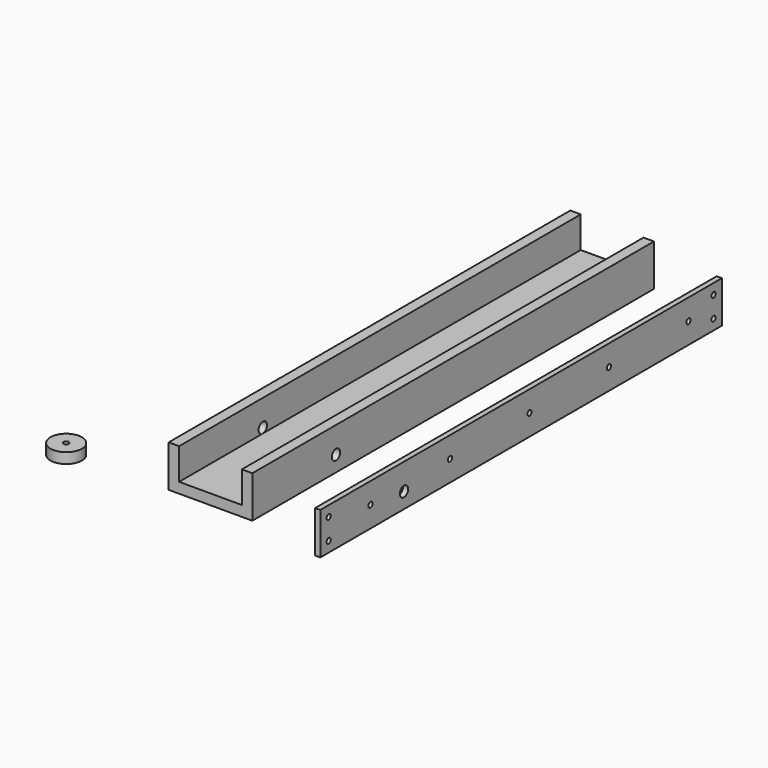
from build123d import *

# Parameters (mm, degrees)
F1_DEPTH  = 304.8
F2_R      = 3.175
F3_DEPTH  = 50.8
F4_W      = 3.175
F4_H      = 304.8
F5_DEPTH  = 25.4
F6_R      = 3.175
F7_DEPTH  = 25.4
F8_R      = 1.5875
F9_DEPTH  = 25.4
F10_R     = 9.525
F10_R_2   = 1.5875
F11_DEPTH = 6.35
F12_R     = 1.5875
F13_DEPTH = 25.4


with BuildPart() as f1:
    # F0 (on Front) → F1 (new body)
    with BuildSketch(Plane.XZ):
        Polygon((-19.05, 6.210679), (-25.4, 6.210679), (-25.4, -19.189321), (25.4, -19.189321), (25.4, 6.210679), (19.05, 6.210679), (19.05, -12.839321), (-19.05, -12.839321), align=None)
    extrude(amount=-F1_DEPTH)

    # F2 (on face) → F3 (cut, through all)
    with BuildSketch(Plane(origin=(-25.4, 0, 0), x_dir=(0, -1, 0), z_dir=(-1, 0, 0))):
        with Locations((-63.5, -9.664321)):
            Circle(F2_R)
    extrude(amount=-F3_DEPTH, mode=Mode.SUBTRACT)

    # F12 (on face) → F13 (cut)
    with BuildSketch(Plane(origin=(0, 0, -19.189321), x_dir=(1, 0, 0), z_dir=(0, 0, -1))):
        with Locations((0, -184.15)):
            Circle(F12_R)
        with Locations((0, -234.95)):
            Circle(F12_R)
        with Locations((0, -285.75)):
            Circle(F12_R)
    extrude(amount=-F13_DEPTH, mode=Mode.SUBTRACT)


with BuildPart() as f5:
    # F4 (on Top) → F5 (new body)
    with BuildSketch(Plane.XY):
        with Locations((65.087453, 152.4)):
            Rectangle(F4_W, F4_H)
    extrude(amount=-F5_DEPTH)

    # F6 (on face) → F7 (cut)
    with BuildSketch(Plane.YZ.offset(66.674953)):
        with Locations((63.5, -15.875)):
            Circle(F6_R)
    extrude(amount=-F7_DEPTH, mode=Mode.SUBTRACT)

    # F8 (on face) → F9 (cut)
    with BuildSketch(Plane.YZ.offset(66.674953)):
        with Locations((6.35, -6.35)):
            Circle(F8_R)
        with Locations((6.35, -19.05)):
            Circle(F8_R)
        with Locations((38.1, -12.7)):
            Circle(F8_R)
        with Locations((98.425, -12.7)):
            Circle(F8_R)
        with Locations((158.75, -12.7)):
            Circle(F8_R)
        with Locations((219.075, -12.7)):
            Circle(F8_R)
        with Locations((279.4, -12.7)):
            Circle(F8_R)
        with Locations((298.45, -6.35)):
            Circle(F8_R)
        with Locations((298.45, -19.05)):
            Circle(F8_R)
    extrude(amount=-F9_DEPTH, mode=Mode.SUBTRACT)


with BuildPart() as f11:
    # F10 (on Top) → F11 (new body)
    with BuildSketch(Plane.XY):
        with Locations((-62.788613, -31.054294)):
            Circle(F10_R)
        with Locations((-62.788613, -31.054294)):
            Circle(F10_R_2, mode=Mode.SUBTRACT)
    extrude(amount=F11_DEPTH)


solid = Compound([f1.part, f5.part, f11.part])
